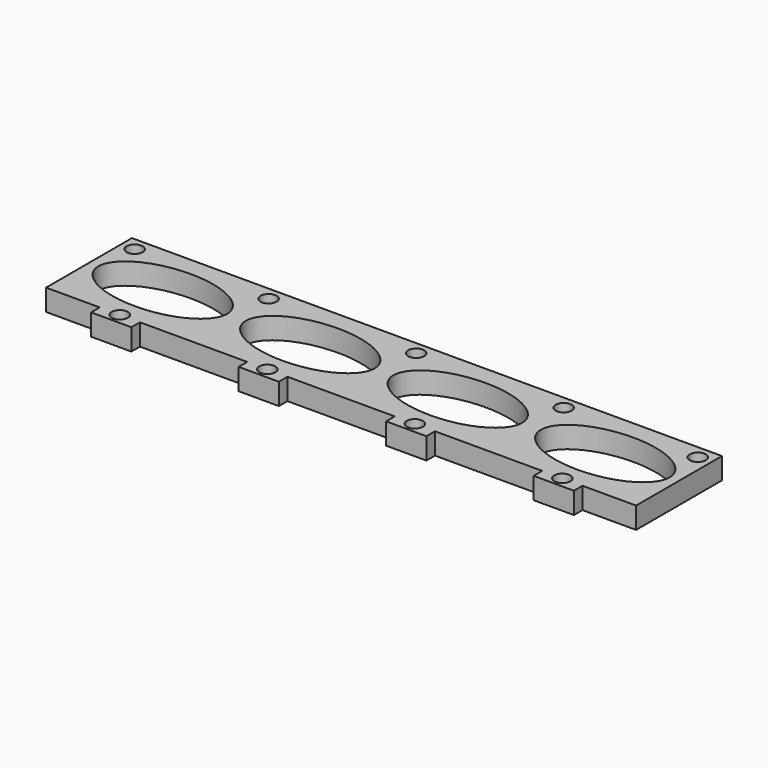
from build123d import *

# Parameters (mm, degrees)
F0_R     = 3
F1_DEPTH = 8


with BuildPart() as f1:
    # F0 (on Top) → F1 (new body)
    with BuildSketch(Plane.XY):
        with BuildLine():
            Line((-79.5, -20), (-75, -20))
            Line((-75, -20), (-35, -20))
            Line((-35, -20), (-35, -16))
            Line((-35, -16), (-20, -16))
            Line((-20, -16), (-20, -20))
            Line((-20, -20), (20, -20))
            Line((20, -20), (20, -16))
            Line((20, -16), (35, -16))
            Line((35, -16), (35, -20))
            Line((35, -20), (75, -20))
            Line((75, -20), (75, -16))
            Line((75, -16), (90, -16))
            Line((90, -16), (90, -20))
            Line((90, -20), (110, -20))
            Line((110, -20), (110, 20))
            Line((110, 20), (-110, 20))
            Line((-110, 20), (-110, -20))
            Line((-110, -20), (-90, -20))
            Line((-90, -20), (-85.5, -20))
            ThreePointArc((-85.5, -20), (-82.5, -17), (-79.5, -20))
        make_face()
        with BuildLine():
            add(Edge.make_bspline(
                [(-58.5, 0), (-58.5, 22.51666), (-94.5, 11.25833), (-130.5, 0), (-94.5, -11.25833), (-58.5, -22.51666), (-58.5, 0)],
                knots=[0, 0, 0, 2.094395, 2.094395, 4.18879, 4.18879, 6.283185, 6.283185, 6.283185], degree=2, weights=[1, 0.5, 1, 0.5, 1, 0.5, 1]))
        make_face(mode=Mode.SUBTRACT)
        with BuildLine():
            add(Edge.make_bspline(
                [(-3.5, 0), (-3.5, 22.51666), (-39.5, 11.25833), (-75.5, 0), (-39.5, -11.25833), (-3.5, -22.51666), (-3.5, 0)],
                knots=[0, 0, 0, 2.094395, 2.094395, 4.18879, 4.18879, 6.283185, 6.283185, 6.283185], degree=2, weights=[1, 0.5, 1, 0.5, 1, 0.5, 1]))
        make_face(mode=Mode.SUBTRACT)
        with Locations((-105, 15)):
            Circle(F0_R, mode=Mode.SUBTRACT)
        with Locations((-55, 15)):
            Circle(F0_R, mode=Mode.SUBTRACT)
        with BuildLine():
            add(Edge.make_bspline(
                [(51.5, 0), (51.5, 22.51666), (15.5, 11.25833), (-20.5, 0), (15.5, -11.25833), (51.5, -22.51666), (51.5, 0)],
                knots=[0, 0, 0, 2.094395, 2.094395, 4.18879, 4.18879, 6.283185, 6.283185, 6.283185], degree=2, weights=[1, 0.5, 1, 0.5, 1, 0.5, 1]))
        make_face(mode=Mode.SUBTRACT)
        with BuildLine():
            add(Edge.make_bspline(
                [(106.5, 0), (106.5, 22.51666), (70.5, 11.25833), (34.5, 0), (70.5, -11.25833), (106.5, -22.51666), (106.5, 0)],
                knots=[0, 0, 0, 2.094395, 2.094395, 4.18879, 4.18879, 6.283185, 6.283185, 6.283185], degree=2, weights=[1, 0.5, 1, 0.5, 1, 0.5, 1]))
        make_face(mode=Mode.SUBTRACT)
        with Locations((0, 15)):
            Circle(F0_R, mode=Mode.SUBTRACT)
        with Locations((55, 15)):
            Circle(F0_R, mode=Mode.SUBTRACT)
        with Locations((105, 15)):
            Circle(F0_R, mode=Mode.SUBTRACT)
        with BuildLine():
            Line((-30.5, -20), (-35, -20))
            Line((-35, -20), (-35, -24))
            Line((-35, -24), (-20, -24))
            Line((-20, -24), (-20, -20))
            Line((-20, -20), (-24.5, -20))
            ThreePointArc((-24.5, -20), (-27.5, -23), (-30.5, -20))
        make_face()
        with BuildLine():
            Line((-75, -24), (-75, -20))
            Line((-75, -20), (-79.5, -20))
            ThreePointArc((-79.5, -20), (-82.5, -23), (-85.5, -20))
            Line((-85.5, -20), (-90, -20))
            Line((-90, -20), (-90, -24))
            Line((-90, -24), (-75, -24))
        make_face()
        with BuildLine():
            Line((24.5, -20), (20, -20))
            Line((20, -20), (20, -24))
            Line((20, -24), (35, -24))
            Line((35, -24), (35, -20))
            Line((35, -20), (30.5, -20))
            ThreePointArc((30.5, -20), (27.5, -23), (24.5, -20))
        make_face()
        with BuildLine():
            Line((90, -24), (90, -20))
            Line((90, -20), (85.5, -20))
            ThreePointArc((85.5, -20), (82.5, -23), (79.5, -20))
            Line((79.5, -20), (75, -20))
            Line((75, -20), (75, -24))
            Line((75, -24), (90, -24))
        make_face()
        with BuildLine():
            Line((20, -16), (20, -20))
            Line((20, -20), (24.5, -20))
            ThreePointArc((24.5, -20), (27.5, -17), (30.5, -20))
            Line((30.5, -20), (35, -20))
            Line((35, -20), (35, -16))
            Line((35, -16), (20, -16))
        make_face()
        with BuildLine():
            Line((-35, -16), (-35, -20))
            Line((-35, -20), (-30.5, -20))
            ThreePointArc((-30.5, -20), (-27.5, -17), (-24.5, -20))
            Line((-24.5, -20), (-20, -20))
            Line((-20, -20), (-20, -16))
            Line((-20, -16), (-35, -16))
        make_face()
        with BuildLine():
            Line((85.5, -20), (90, -20))
            Line((90, -20), (90, -16))
            Line((90, -16), (75, -16))
            Line((75, -16), (75, -20))
            Line((75, -20), (79.5, -20))
            ThreePointArc((79.5, -20), (82.5, -17), (85.5, -20))
        make_face()
    extrude(amount=F1_DEPTH)


solid = f1.part
